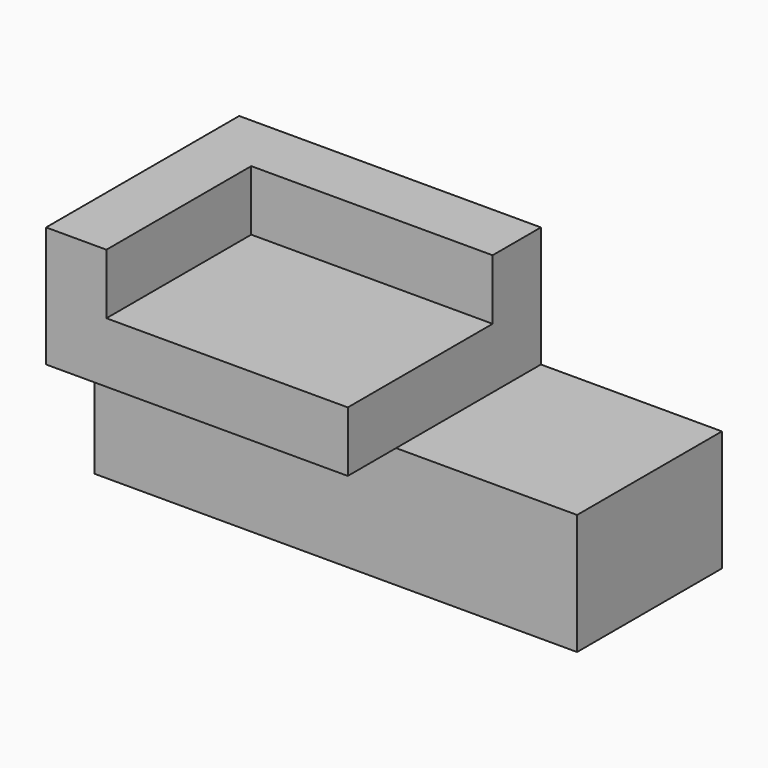
from build123d import *

# Parameters (mm, degrees)
F0_W     = 203.2
F0_H     = 76.2
F1_DEPTH = 50.8
F2_W     = 127
F2_H     = 76.2
F3_DEPTH = 25.4
F4_W     = 127
F4_H     = 25.4
F5_DEPTH = 25.4
F6_W     = 25.4
F6_H     = 101.6
F7_DEPTH = 25.4
F8_W     = 25.4
F8_H     = 25.4
F9_DEPTH = 101.6


with BuildPart() as f1:
    # F0 (on Top) → F1 (new body)
    with BuildSketch(Plane.XY):
        with Locations((-70.800534153, -1.4201928914)):
            Rectangle(F0_W, F0_H)
    extrude(amount=F1_DEPTH)

    # F2 (on face) → F3 (join)
    with BuildSketch(Plane.XY.offset(50.8)):
        with Locations((-108.900534153, -1.4201928914)):
            Rectangle(F2_W, F2_H)
    extrude(amount=F3_DEPTH)

    # F4 (on face) → F5 (join)
    with BuildSketch(Plane.XZ.offset(39.5201928914)):
        with Locations((-108.900534153, 63.5)):
            Rectangle(F4_W, F4_H)
    extrude(amount=F5_DEPTH)

    # F6 (on face) → F7 (join)
    with BuildSketch(Plane.XY.offset(76.2)):
        with Locations((-159.700534153, -14.1201928914)):
            Rectangle(F6_W, F6_H)
    extrude(amount=F7_DEPTH)

    # F8 (on face) → F9 (join)
    with BuildSketch(Plane.YZ.offset(-147.000534153)):
        with Locations((23.9798071086, 88.9)):
            Rectangle(F8_W, F8_H)
    extrude(amount=F9_DEPTH)


solid = f1.part
